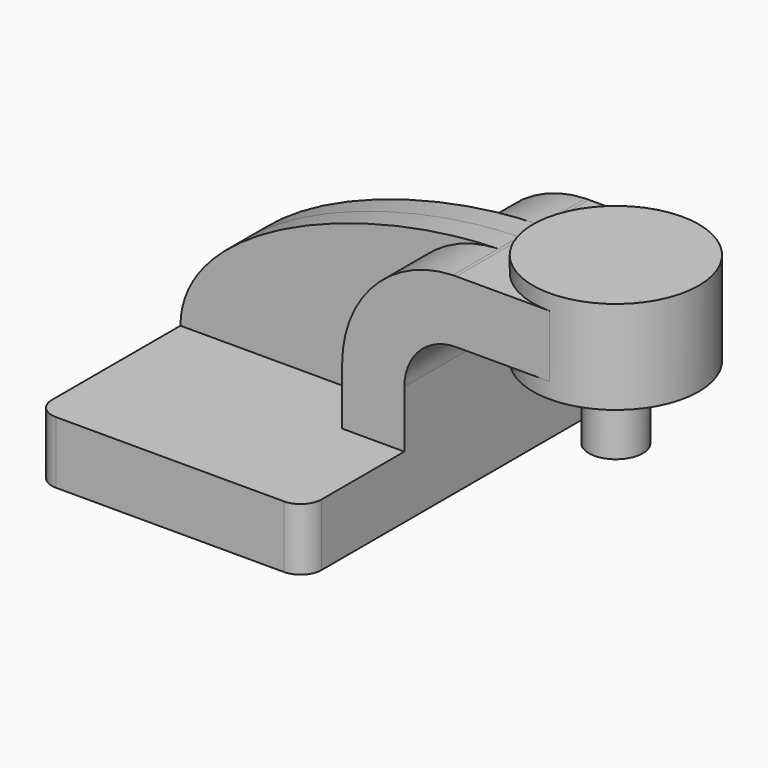
from build123d import *

# Parameters (mm, degrees)
F1_DEPTH = 63.5
F2_DEPTH = 7.9375
F0_W     = 25.4
F0_H     = 19.05
F3_DEPTH = 25.4
F5_R     = 6.35
F6_R     = 8.255
F7_DEPTH = 50.8


with BuildPart() as f1:
    # F0 (on Front) → F1 (new body, symmetric)
    with BuildSketch(Plane.XZ):
        Polygon((41.275, -9.525), (41.275, 9.525), (22.225, 9.525), (-41.275, 9.525), (-41.275, -9.525), align=None)
    extrude(amount=F1_DEPTH, both=True)

    # F0 (on Front) → F2 (join, symmetric)
    with BuildSketch(Plane.XZ):
        with BuildLine():
            Line((-41.275, 9.525), (22.225, 9.525))
            Line((22.225, 9.525), (22.225, 27.0002))
            ThreePointArc((22.225, 27.0002), (32.085462505, 51.3214784443), (56.0989919922, 61.9093822758))
            add(Edge.make_bspline(
                [(-41.275, 9.525), (-41.1447664314, 39.122666143), (14.0637717718, 61.1012042417), (56.0989919922, 61.9093822758)],
                knots=[0, 0, 0, 0, 110.5804655627, 110.5804655627, 110.5804655627, 110.5804655627], degree=3))
        make_face()
    extrude(amount=F2_DEPTH, both=True)

    # F0 (on Front) → F3 (join, symmetric)
    with BuildSketch(Plane.XZ):
        with BuildLine():
            Line((22.225, 9.525), (41.275, 9.525))
            Line((41.275, 9.525), (41.275, 27.0002))
            ThreePointArc((41.275, 27.0002), (45.9246798487, 38.2255201513), (57.15, 42.8752))
            Line((57.15, 42.8752), (60.325, 42.8752))
            Line((60.325, 42.8752), (60.325, 61.9252))
            Line((60.325, 61.9252), (57.15, 61.9252))
            add(Edge.make_bspline(
                [(56.0989919922, 61.9093822758), (56.450261188, 61.9161358517), (56.8006104667, 61.9214110624), (57.15, 61.9252)],
                knots=[110.5804655627, 110.5804655627, 110.5804655627, 110.5804655627, 111.5045361635, 111.5045361635, 111.5045361635, 111.5045361635], degree=3))
            ThreePointArc((56.0989919922, 61.9093822758), (32.085462505, 51.3214784443), (22.225, 27.0002))
            Line((22.225, 27.0002), (22.225, 9.525))
        make_face()
        with Locations((73.025, 52.4002)):
            Rectangle(F0_W, F0_H)
    extrude(amount=F3_DEPTH, both=True)

    # F0 (on Front) → F4 (revolve)
    with BuildSketch(Plane.XZ):
        Polygon((85.725, 61.9252), (85.725, 42.8752), (85.725, 38.1), (111.125, 38.1), (111.125, 66.675), (85.725, 66.675), align=None)
    revolve(axis=Axis((85.725, 0, 52.3875), (0, 0, 1)))

    # F5
    f5_edges = [f1.edges().sort_by_distance(p)[0] for p in [
        (-41.275, -63.5, 0),
        (41.275, -63.5, 0),
        (41.275, 63.5, 0),
        (-41.275, 63.5, 0),
    ]]
    fillet(f5_edges, radius=F5_R)

    # F6 (on face) → F7 (join)
    with BuildSketch(Plane.XY.offset(66.675)):
        with Locations((85.725, 0)):
            Circle(F6_R)
    extrude(amount=-F7_DEPTH)


solid = f1.part
